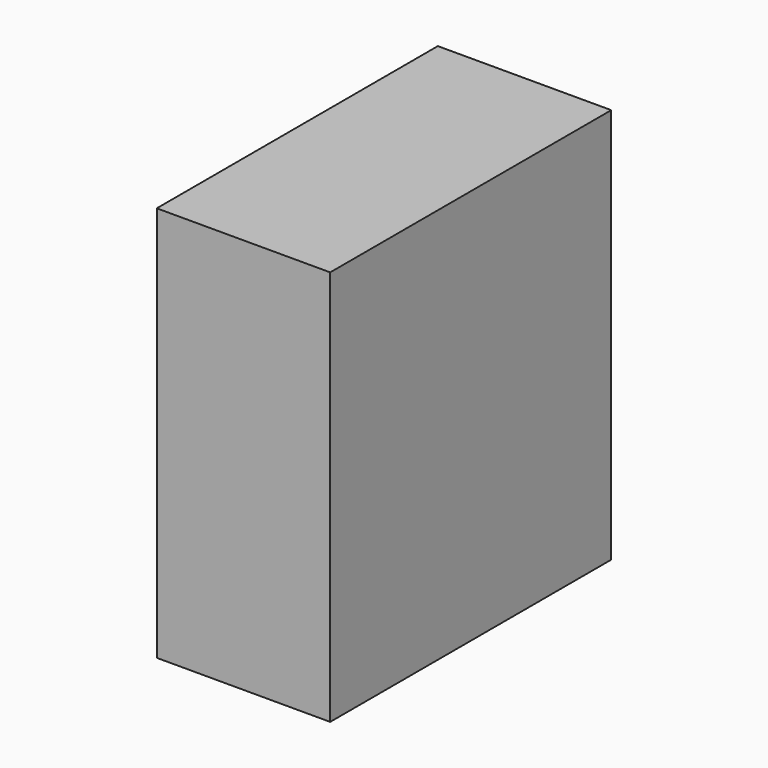
from build123d import *

# Parameters (mm, degrees)
F0_W     = 247.65
F0_H     = 501.65
F1_DEPTH = 19.05
F2_W     = 247.65
F2_H     = 501.65
F2_W_2   = 209.55
F2_H_2   = 463.55
F3_DEPTH = 546.1
F4_W     = 501.65
F4_H     = 19.05
F5_DEPTH = 247.65


with BuildPart() as f1:
    # F0 (on Top) → F1 (new body)
    with BuildSketch(Plane.XY):
        with Locations((-82.35004, 193.778881)):
            Rectangle(F0_W, F0_H)
    extrude(amount=F1_DEPTH)

    # F2 (on face) → F3 (join)
    with BuildSketch(Plane(origin=(0, 0, 0), x_dir=(1, 0, 0), z_dir=(0, 0, -1))):
        with Locations((-82.35004, -193.778881)):
            Rectangle(F2_W, F2_H)
        with Locations((-82.35004, -193.778881)):
            Rectangle(F2_W_2, F2_H_2, mode=Mode.SUBTRACT)
    extrude(amount=F3_DEPTH)

    # F4 (on face) → F5 (join)
    with BuildSketch(Plane(origin=(-206.17504, 0, 0), x_dir=(0, -1, 0), z_dir=(-1, 0, 0))):
        with Locations((-193.778881, -536.575)):
            Rectangle(F4_W, F4_H)
    extrude(amount=-F5_DEPTH)


solid = f1.part
